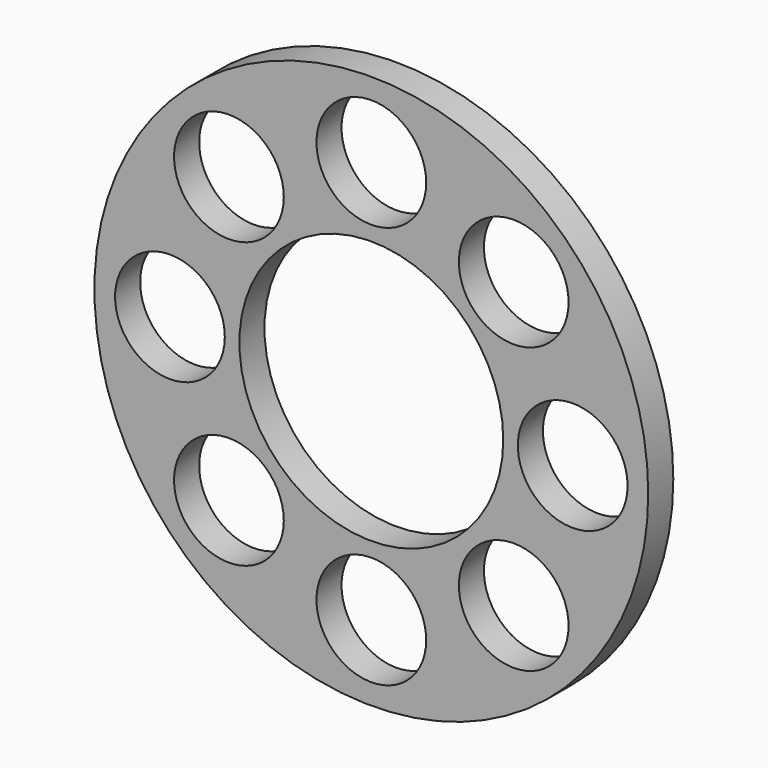
from build123d import *

# Parameters (mm, degrees)
F0_R     = 106
F0_R_2   = 50.5
F1_DEPTH = 6
F2_R     = 21
F3_DEPTH = 12
F4_DEPTH = 25


with BuildPart() as f1:
    # F0 (on Front) → F1 (new body, symmetric)
    with BuildSketch(Plane.XZ):
        Circle(F0_R)
        Circle(F0_R_2, mode=Mode.SUBTRACT)
    extrude(amount=F1_DEPTH, both=True)

    # F2 (on face) → F3 (join)
    with BuildSketch(Plane.XZ.offset(6)):
        with Locations((0, 77.0860096719)):
            Circle(F2_R)
        with Locations((54.5080401736, 54.5080401736)):
            Circle(F2_R)
        with Locations((77.0860096719, 0)):
            Circle(F2_R)
        with Locations((54.5080401736, -54.5080401736)):
            Circle(F2_R)
        with Locations((0, -77.0860096719)):
            Circle(F2_R)
        with Locations((-54.5080401736, -54.5080401736)):
            Circle(F2_R)
        with Locations((-77.0860096719, 0)):
            Circle(F2_R)
        with Locations((-54.5080401736, 54.5080401736)):
            Circle(F2_R)
    extrude(amount=F3_DEPTH)

    # F4 (cut, symmetric): faces of the model
    f4_faces = [f1.faces().sort_by_distance(p)[0] for p in [
        (-77.0860096719, -18, 0),
        (-54.5080401736, -18, 54.5080401736),
        (77.0860096719, -18, 0),
        (54.5080401736, -18, -54.5080401736),
        (0, -18, -77.0860096719),
        (-54.5080401736, -18, -54.5080401736),
        (0, -18, 77.0860096719),
        (54.5080401736, -18, 54.5080401736),
    ]]
    extrude(f4_faces, amount=F4_DEPTH, both=True, mode=Mode.SUBTRACT)


solid = f1.part
